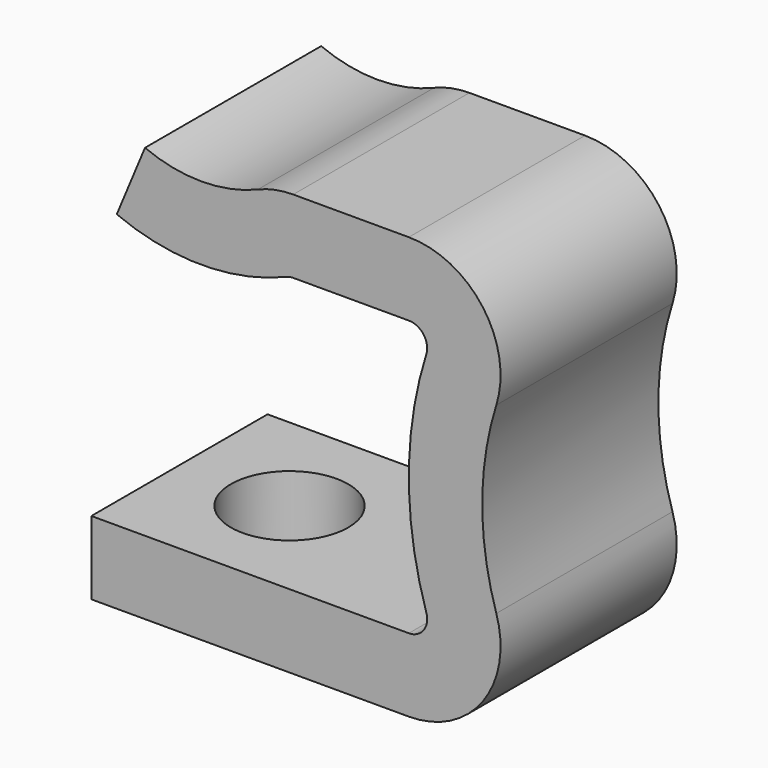
from build123d import *

# Parameters (mm, degrees)
SKETCH001_W = 6
SKETCH001_H = 2
SKETCH002_R = 1.6
HOLE_DEPTH  = 2
HOLE_TIPS_R = 1.6


with BuildPart() as part:
    # AdditivePipe: sweep along a path in Sketch
    with BuildLine(Plane.XZ) as additivepipe_path:
        Line((-3, 0), (5.65, 0))
        ThreePointArc((5.65, 0), (6.053202, 0.204318), (6.126879, 0.650289))
        ThreePointArc((6.126879, 0.650289), (5.65, 3.75), (6.126879, 6.849711))
        ThreePointArc((6.126879, 6.849711), (6.053202, 7.295682), (5.65, 7.5))
        Line((5.65, 7.5), (2.5, 7.5))
        ThreePointArc((2.5, 7.5), (2.401942, 7.49029), (2.307692, 7.461538))
        ThreePointArc((2.307692, 7.461538), (0, 7), (-2.307692, 7.461538))
    # Sketch001 → AdditivePipe (sweep)
    with BuildSketch(Plane.YZ):
        with Locations((0, -1)):
            Rectangle(SKETCH001_W, SKETCH001_H)
    sweep(path=additivepipe_path.line)

    # Sketch002 (on DatumPlane) → Hole (cut)
    with BuildSketch(Plane.XY.offset(-2)):
        Circle(SKETCH002_R)
    extrude(amount=HOLE_DEPTH, mode=Mode.SUBTRACT)

    # Hole tips → Hole tip 1 section 0
    with BuildSketch(Plane.XY, mode=Mode.PRIVATE) as hole_tip_1_s0:
        Circle(HOLE_TIPS_R)
    loft([hole_tip_1_s0.sketch, Vertex(0, 0, 0.961377)], mode=Mode.SUBTRACT)


solid = part.part
